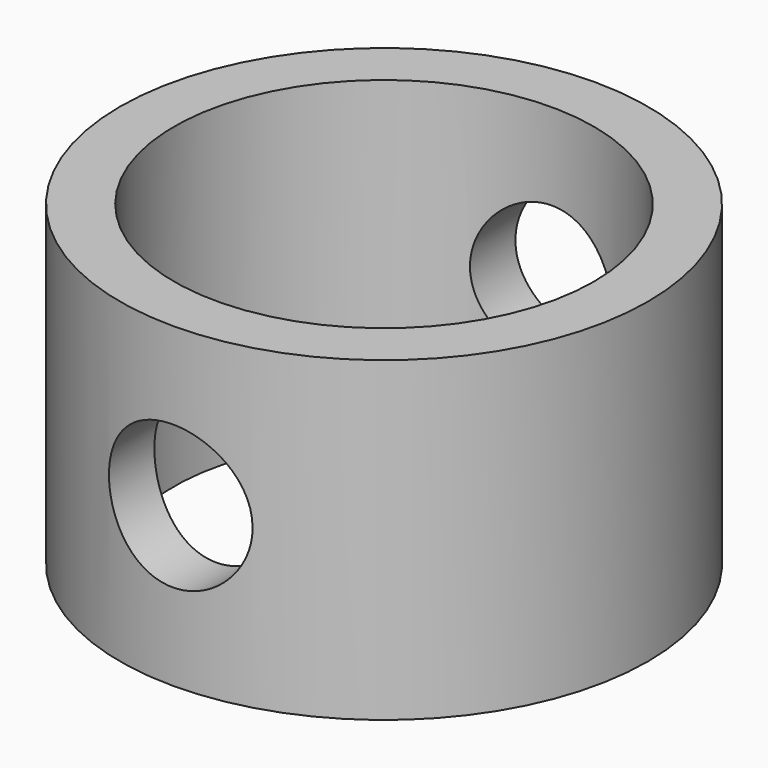
from build123d import *

# Parameters (mm, degrees)
F0_R          = 7.9375
F0_R_2        = 6.3119
F1_DEPTH      = 9.525
F2_R          = 2.159
F3_DEPTH      = 25.4
F3_DEPTH_BACK = 25.4


with BuildPart() as f1:
    # F0 (on Top) → F1 (new body)
    with BuildSketch(Plane.XY):
        Circle(F0_R)
        Circle(F0_R_2, mode=Mode.SUBTRACT)
    extrude(amount=F1_DEPTH)

    # F2 (on Front) → F3 (cut, two sides)
    with BuildSketch(Plane.XZ) as f3_sk:
        with Locations((0, 4.7625)):
            Circle(F2_R)
    extrude(amount=-F3_DEPTH, mode=Mode.SUBTRACT)
    extrude(f3_sk.sketch, amount=F3_DEPTH_BACK, mode=Mode.SUBTRACT)


solid = f1.part
